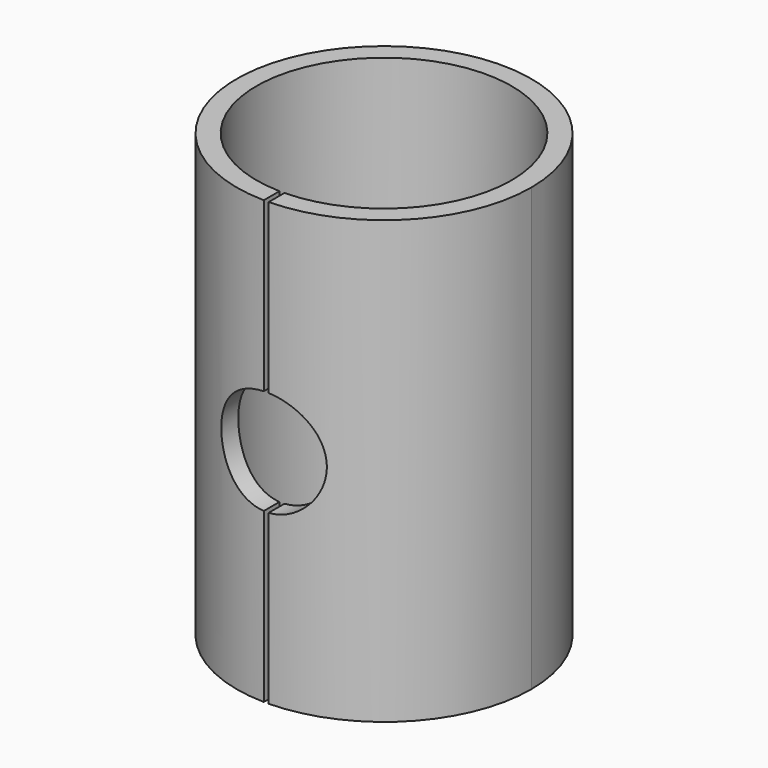
from build123d import *

# Parameters (mm, degrees)
SKETCH009_R       = 30
SKETCH009_R_2     = 26
PAD002_DEPTH      = 45
PAD002_DEPTH_BACK = 45
SKETCH010_R       = 10.75
POCKET007_DEPTH   = 30.001
SKETCH027_W       = 1
SKETCH027_H       = 90
POCKET012_DEPTH   = 30.001


with BuildPart() as part:
    # Sketch009 → Pad002 (new body, two sides)
    with BuildSketch(Plane.XY) as pad002_sk:
        Circle(SKETCH009_R)
        Circle(SKETCH009_R_2, mode=Mode.SUBTRACT)
    extrude(amount=PAD002_DEPTH)
    extrude(pad002_sk.sketch, amount=-PAD002_DEPTH_BACK)

    # Sketch010 → Pocket007 (cut, through all)
    with BuildSketch(Plane.XZ):
        Circle(SKETCH010_R)
    extrude(amount=POCKET007_DEPTH, mode=Mode.SUBTRACT)

    # Sketch027 → Pocket012 (cut, through all)
    with BuildSketch(Plane.XZ):
        Rectangle(SKETCH027_W, SKETCH027_H)
    extrude(amount=POCKET012_DEPTH, mode=Mode.SUBTRACT)


solid = part.part
